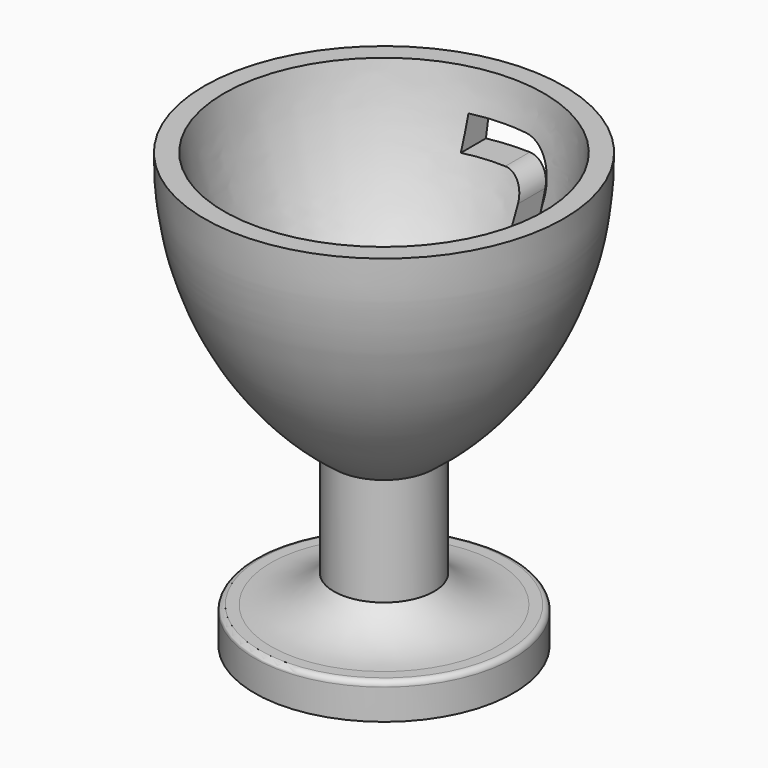
from build123d import *

# Parameters (mm, degrees)
F3_DEPTH = 25.004798


with BuildPart() as f1:
    # F0 (on Front) → F1 (revolve)
    with BuildSketch(Plane.XZ):
        with BuildLine():
            Line((-18, 0), (0, 0))
            Line((0, 0), (0, 23.87779))
            ThreePointArc((0, 23.87779), (-14.688416, 39.957712), (-22.25, 60.381617))
            Line((-22.25, 60.381617), (-25, 60.381617))
            ThreePointArc((-25, 60.381617), (-20.374158, 39.964252), (-6.97666, 23.87779))
            Line((-6.97666, 23.87779), (-6.97666, 8.87779))
            ThreePointArc((-6.97666, 8.87779), (-10.95394, 6.012668), (-15.75, 5))
            Line((-15.75, 5), (-17.25, 5))
            ThreePointArc((-17.25, 5), (-17.78033, 4.78033), (-18, 4.25))
            Line((-18, 4.25), (-18, 0))
        make_face()
    revolve(axis=Axis((0, 0, 11.938895), (0, 0, 1)))

    # F2 (on Front) → F3 (cut, through all)
    with BuildSketch(Plane.XZ):
        with BuildLine():
            Line((3, 55.232314), (-4.744984, 55.232314))
            Line((-4.744984, 55.232314), (-4.744984, 50.937603))
            Line((-4.744984, 50.937603), (1, 50.937603))
            ThreePointArc((1, 50.937603), (3.12132, 50.058923), (4, 47.937603))
            Line((4, 47.937603), (4, 39.937603))
            ThreePointArc((4, 39.937603), (3.133029, 37.828056), (1.033209, 36.937787))
            Line((1.033209, 36.937787), (-5.05482, 36.87039))
            Line((-5.05482, 36.87039), (-5.05482, 32.575679))
            Line((-5.05482, 32.575679), (2.986226, 32.553528))
            ThreePointArc((2.986226, 32.553528), (6.530661, 34.013109), (8, 37.553509))
            Line((8, 37.553509), (8, 50.232314))
            ThreePointArc((8, 50.232314), (6.535534, 53.767848), (3, 55.232314))
        make_face()
    extrude(amount=-F3_DEPTH, mode=Mode.SUBTRACT)


solid = f1.part
